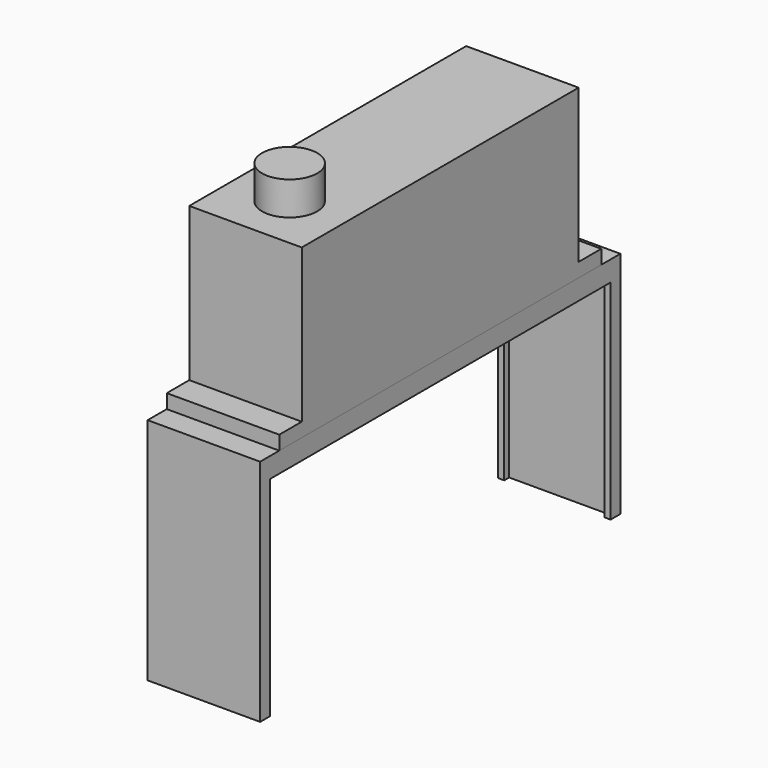
from build123d import *

# Parameters (mm, degrees)
F0_W      = 10.1536312141
F0_H      = 31.2377577648
F1_DEPTH  = 15.113
F0_H_2    = 2.5388905779
F0_H_3    = 2.5526285172
F2_DEPTH  = 1.27
F3_R      = 2.4892
F4_DEPTH  = 3.0226
F5_W      = 10.1536312141
F5_H      = 1.5990231186
F5_H_2    = 36.3292768598
F5_H_3    = 1.6057752073
F6_DEPTH  = 0.5588
F5_H_4    = 0.5591640842
F5_H_5    = 0.5489215255
F7_DEPTH  = 20.6756
F8_W      = 0.5599544384
F8_H      = 39.5340751857
F8_W_2    = 0.555970706
F9_DEPTH  = 1.27
F10_W     = 0.555970706
F10_H     = 18.8468
F10_W_2   = 0.5599544384
F11_DEPTH = 0.5588
F12_W     = 0.555970706
F12_H     = 18.8468
F12_W_2   = 0.5599544384
F13_DEPTH = 0.5588


with BuildPart() as f1:
    # F0 (on Top) → F1 (new body)
    with BuildSketch(Plane.XY):
        with Locations((-0.0042330939, -0.004043337)):
            Rectangle(F0_W, F0_H)
    extrude(amount=F1_DEPTH)

    # F0 (on Top) → F2 (join)
    with BuildSketch(Plane.XY):
        with Locations((-0.0042330939, -16.8923675083)):
            Rectangle(F0_W, F0_H_2)
        with Locations((-0.0042330939, 16.891149804)):
            Rectangle(F0_W, F0_H_3)
    extrude(amount=F2_DEPTH)

    # F3 (on face) → F4 (join)
    with BuildSketch(Plane.XY.offset(15.113)):
        with Locations((-0.0042330939, -10.6444656849)):
            Circle(F3_R)
    extrude(amount=F4_DEPTH)


with BuildPart() as f6:
    # F5 (on face) → F6 (new body)
    with BuildSketch(Plane(origin=(0, 0, 0), x_dir=(1, 0, 0), z_dir=(0, 0, -1))):
        with Locations((-0.0042330939, 18.9613243565)):
            Rectangle(F5_W, F5_H)
        with Locations((-0.0042330939, -0.0028256327)):
            Rectangle(F5_W, F5_H_2)
        with Locations((-0.0042330939, -18.9703516662)):
            Rectangle(F5_W, F5_H_3)
    extrude(amount=F6_DEPTH)

    # F5 (on face) → F7 (join)
    with BuildSketch(Plane(origin=(0, 0, 0), x_dir=(1, 0, 0), z_dir=(0, 0, -1))):
        with Locations((-0.0042330939, 20.0404179579)):
            Rectangle(F5_W, F5_H_4)
        with Locations((-0.0042330939, -20.0477000326)):
            Rectangle(F5_W, F5_H_5)
    extrude(amount=F7_DEPTH)

    # F8 (on face) → F9 (join)
    with BuildSketch(Plane(origin=(0, 0, -0.5588), x_dir=(1, 0, 0), z_dir=(0, 0, -1))):
        with Locations((4.7926052939, -0.006201677)):
            Rectangle(F8_W, F8_H)
        with Locations((-4.8030633479, -0.006201677)):
            Rectangle(F8_W_2, F8_H)
    extrude(amount=F9_DEPTH)

    # F10 (on face) → F11 (join)
    with BuildSketch(Plane(origin=(0, -19.7608359158, 0), x_dir=(-1, 0, 0), z_dir=(0, 1, 0))):
        with Locations((4.8030633479, -11.2522)):
            Rectangle(F10_W, F10_H)
        with Locations((-4.7926052939, -11.2522)):
            Rectangle(F10_W_2, F10_H)
    extrude(amount=F11_DEPTH)

    # F12 (on face) → F13 (join)
    with BuildSketch(Plane.XZ.offset(-19.7732392699)):
        with Locations((-4.8030633479, -11.2522)):
            Rectangle(F12_W, F12_H)
        with Locations((4.7926052939, -11.2522)):
            Rectangle(F12_W_2, F12_H)
    extrude(amount=F13_DEPTH)


solid = Compound([f1.part, f6.part])
